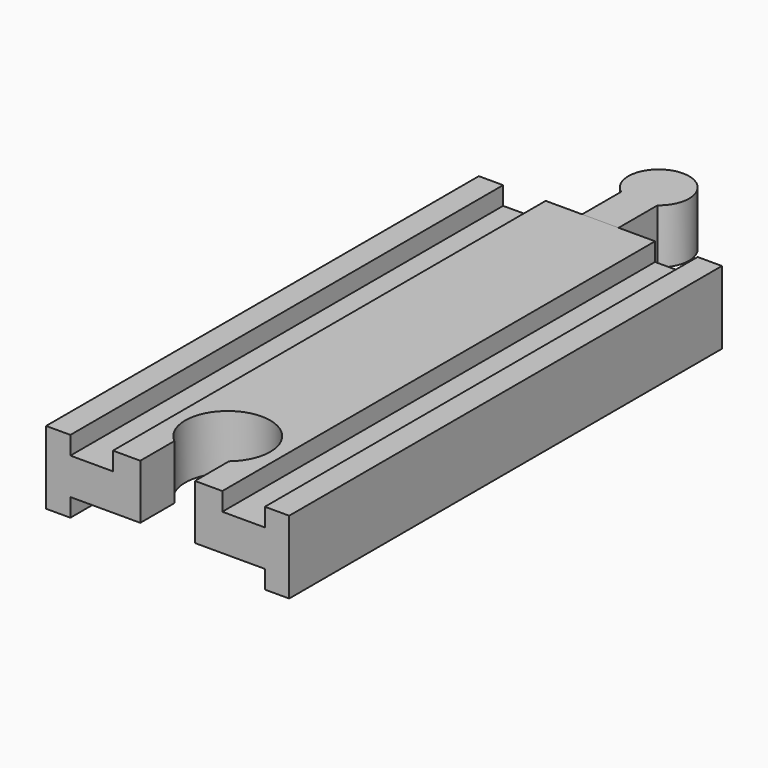
from build123d import *

# Parameters (mm, degrees)
PAD_DEPTH         = 89
POCKET_DEPTH      = 12.001
PAD001_DEPTH      = 6
PAD001_DEPTH_BACK = 3


with BuildPart() as body:
    # Sketch → Pad (new body)
    with BuildSketch(Plane.XZ):
        Polygon((-20, 6), (-20, -6), (-16, -6), (-16, -3), (-9, -3), (9, -3), (16, -3), (16, -6), (20, -6), (20, 6), (16, 6), (16, 3), (9, 3), (9, 6), (-9, 6), (-9, 3), (-16, 3), (-16, 6), align=None)
    extrude(amount=PAD_DEPTH)

    # Sketch002 (on Face14 of Pad) → Pocket (cut, through all)
    with BuildSketch(Plane(origin=(0, 0, 6), x_dir=(-1, 0, 0), z_dir=(0, 0, 1))):
        with BuildLine():
            Line((-4.5, 89), (4.5, 89))
            Line((4.5, 89), (4.5, 82))
            ThreePointArc((-4.5, 82), (0, 69.638097), (4.5, 82))
            Line((-4.5, 89), (-4.5, 82))
        make_face()
    extrude(amount=-POCKET_DEPTH, mode=Mode.SUBTRACT)


with BuildPart() as body001:
    # Sketch001 → Pad001 (new body, two sides)
    with BuildSketch(Plane.XY) as pad001_sk:
        with BuildLine():
            Line((-3, 0), (3, 0))
            Line((3, 0), (3, 8))
            ThreePointArc((3, 8), (0, 17), (-3, 8))
            Line((-3, 0), (-3, 8))
        make_face()
    extrude(amount=PAD001_DEPTH)
    extrude(pad001_sk.sketch, amount=-PAD001_DEPTH_BACK)


solid = Compound([body.part, body001.part])
